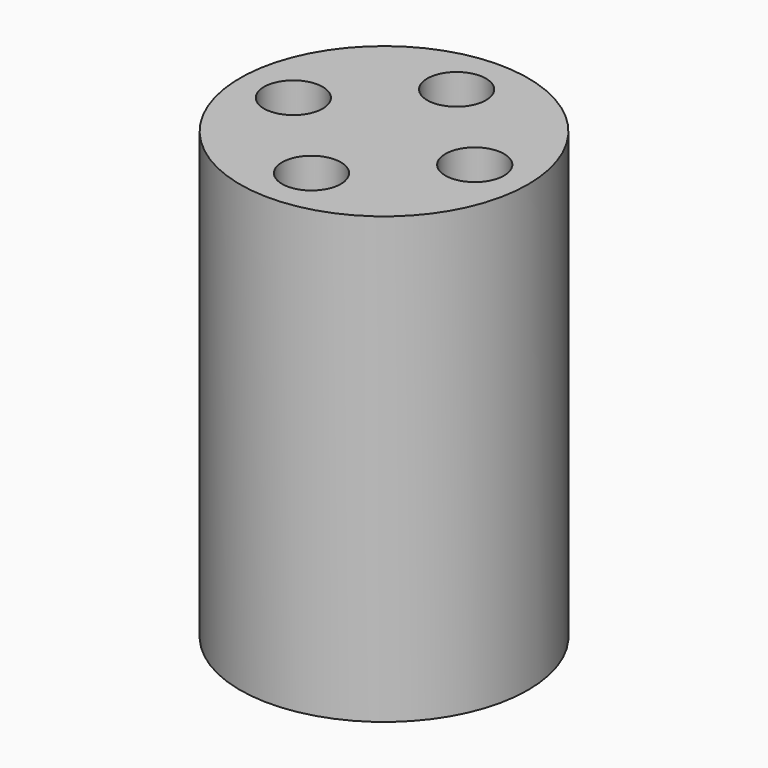
from build123d import *

# Parameters (mm, degrees)
F0_R     = 8.575
F1_DEPTH = 26.5
F3_D     = 3.5
F4_D     = 3.5
F5_D     = 3.5


with BuildPart() as f1:
    # F0 (on Top) → F1 (new body)
    with BuildSketch(Plane.XY):
        Circle(F0_R)
        Circle(F0_R)
    extrude(amount=F1_DEPTH)

    # F3 (through all)
    with Locations(Plane.XY.offset(26.5)):
        with Locations((0, 5.4)):
            Hole(F3_D / 2)

    # F4 (through all)
    with Locations(Plane.XY.offset(26.5)):
        with Locations((5.4, 0)):
            Hole(F4_D / 2)

    # F5 (through all)
    with Locations(Plane.XY.offset(26.5)):
        with Locations((-5.4, 0), (0, -5.4)):
            Hole(F5_D / 2)


solid = f1.part
